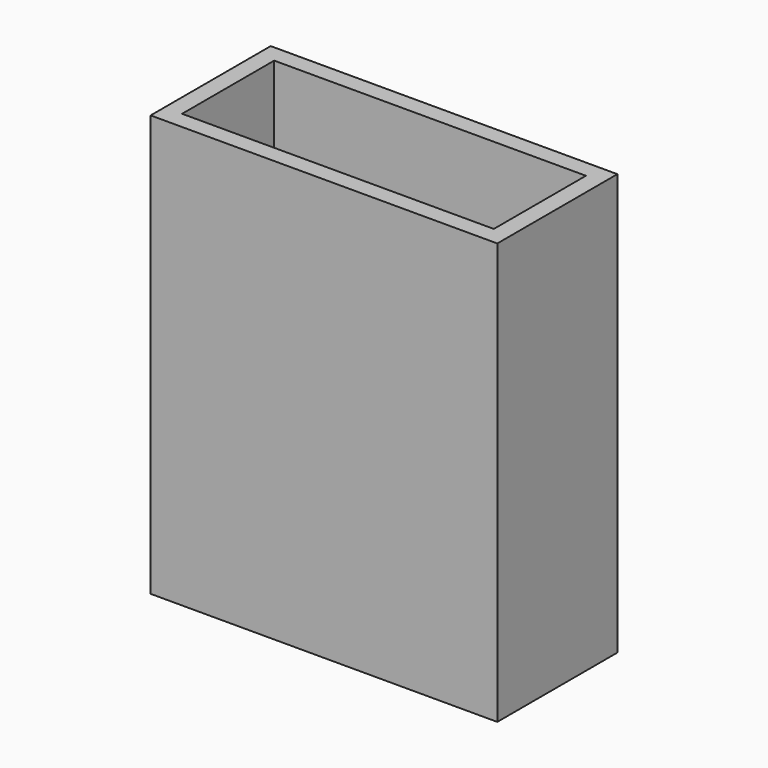
from build123d import *

# Parameters (mm, degrees)
F0_W     = 50.382692
F0_H     = 21.813512
F1_DEPTH = 61.214
F2_T     = -2.54


with BuildPart() as f1:
    # F0 (on Top) → F1 (new body)
    with BuildSketch(Plane.XY):
        with Locations((25.191346, -10.906756)):
            Rectangle(F0_W, F0_H)
    extrude(amount=-F1_DEPTH)

    # F2
    f2_openings = [f1.faces().sort_by_distance(p)[0] for p in [
        (25.191346, -10.906756, 0),
    ]]
    offset(amount=F2_T, openings=f2_openings)


solid = f1.part
